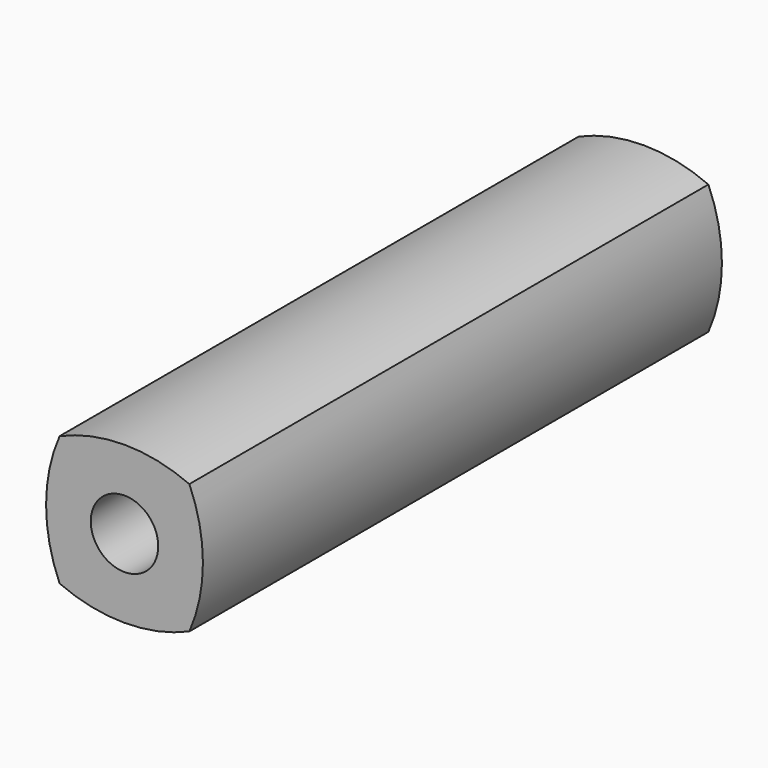
from build123d import *

# Parameters (mm, degrees)
F0_W     = 10.16
F0_H     = 10.16
F0_R     = 2.6416
F1_DEPTH = 50.8


with BuildPart() as f1:
    # F0 (on Front) → F1 (new body)
    with BuildSketch(Plane.XZ):
        with BuildLine():
            ThreePointArc((5.08, 5.08), (0, 6.1402577348), (-5.08, 5.08))
            Line((-5.08, 5.08), (5.08, 5.08))
        make_face()
        Rectangle(F0_W, F0_H)
        Circle(F0_R, mode=Mode.SUBTRACT)
        with BuildLine():
            Line((-5.08, -5.08), (-5.08, 5.08))
            ThreePointArc((-5.08, 5.08), (-6.1402577348, 0), (-5.08, -5.08))
        make_face()
        with BuildLine():
            ThreePointArc((5.08, -5.08), (6.1402577348, 0), (5.08, 5.08))
            Line((5.08, 5.08), (5.08, -5.08))
        make_face()
        with BuildLine():
            Line((5.08, -5.08), (-5.08, -5.08))
            ThreePointArc((-5.08, -5.08), (0, -6.1402577348), (5.08, -5.08))
        make_face()
    extrude(amount=F1_DEPTH)


solid = f1.part
